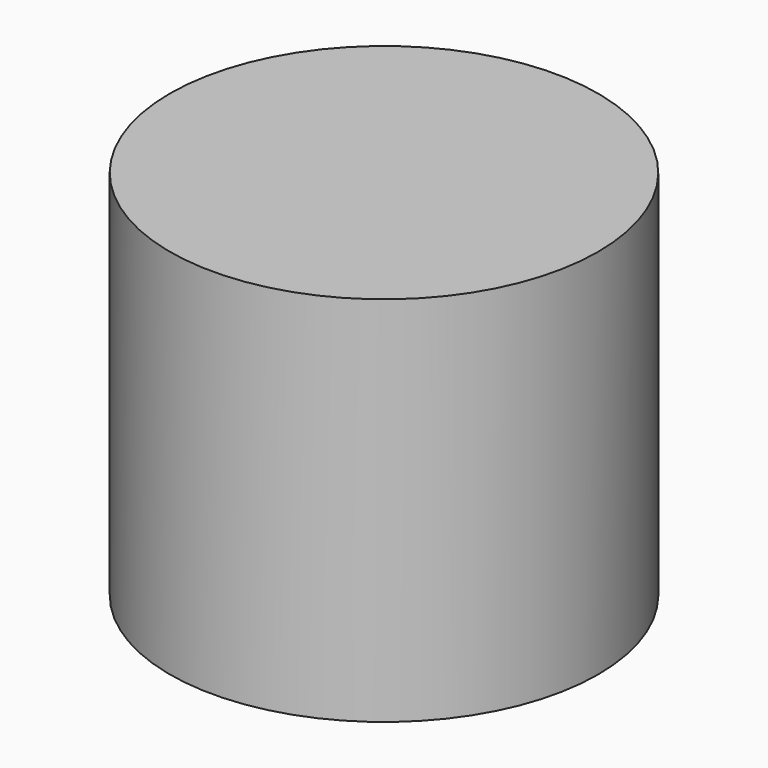
from build123d import *

# Parameters (mm, degrees)
F0_R     = 14.619442
F1_DEPTH = 25.4


with BuildPart() as f1:
    # F0 (on Top) → F1 (new body)
    with BuildSketch(Plane.XY):
        with Locations((43.976486, -20.694822)):
            Circle(F0_R)
    extrude(amount=-F1_DEPTH)


solid = f1.part
